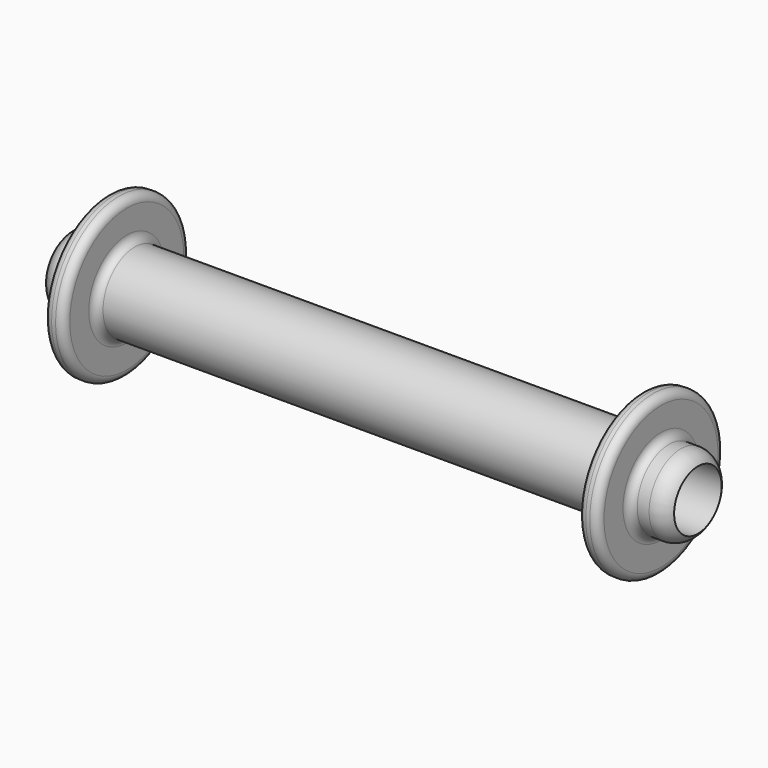
from build123d import *

# Parameters (mm, degrees)
FILLET_R     = 0.79375
FILLET001_R  = 0.3175
SKETCH_R     = 1.19126
POCKET_DEPTH = 25.401


with BuildPart() as part:
    # Sketch002 → Revolution (revolve)
    with BuildSketch(Plane.XZ):
        Polygon((0, 0), (0, 1.5875), (10.31875, 1.5875), (10.31875, 3.175), (11.1125, 3.175), (11.1125, 1.5875), (12.7, 1.5875), (12.7, 0), align=None)
    revolution = revolve(axis=Axis((0, 0, 0), (1, 0, 0)))

    # Mirrored: Revolution across Sketch002 V_Axis
    add(revolution.mirror(Plane(origin=(0, 0, 0), x_dir=(0, -1, 0), z_dir=(1, 0, 0))))

    # Fillet
    fillet_edges = [part.edges().sort_by_distance(p)[0] for p in [
        (12.7, 0, -1.5875),
        (-12.7, 0, -1.5875),
    ]]
    fillet(fillet_edges, radius=FILLET_R)

    # Fillet001
    fillet001_edges = [part.edges().sort_by_distance(p)[0] for p in [
        (-11.1125, 0, -3.175),
        (-11.1125, 0, -1.5875),
        (-10.31875, 0, -1.5875),
        (-10.31875, 0, -3.175),
        (11.1125, 0, -3.175),
        (11.1125, 0, -1.5875),
        (10.31875, 0, -1.5875),
        (10.31875, 0, -3.175),
    ]]
    fillet(fillet001_edges, radius=FILLET001_R)

    # Sketch (on Face4 of Fillet) → Pocket (cut, through all)
    with BuildSketch(Plane(origin=(12.7, 0, 0), x_dir=(0, 0, 1), z_dir=(1, 0, 0))):
        Circle(SKETCH_R)
    extrude(amount=-POCKET_DEPTH, mode=Mode.SUBTRACT)


solid = part.part
